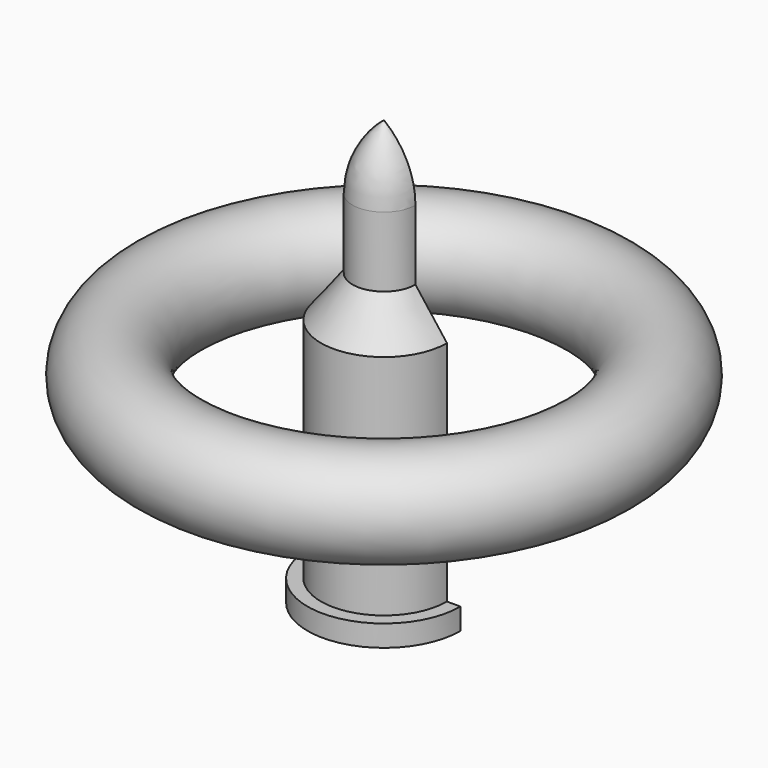
from build123d import *

# Parameters (mm, degrees)
F1_ANGLE = 200
F2_R     = 8.71686


with BuildPart() as f1:
    # F0 (on Front) → F1 (revolve)
    with BuildSketch(Plane.XZ):
        with BuildLine():
            Line((0, 75.112745), (0, 0))
            Line((0, 0), (13.527463, 0))
            Line((13.527463, 0), (13.527463, 3.794289))
            Line((13.527463, 3.794289), (11.133604, 3.794289))
            Line((11.133604, 3.794289), (11.133604, 44.017516))
            Line((11.133604, 44.017516), (5.560741, 51.315997))
            Line((5.560741, 51.315997), (5.560741, 63.680977))
            ThreePointArc((5.560741, 63.680977), (4.096815, 70.037217), (0, 75.112745))
        make_face()
    revolve(axis=Axis((0, 0, 37.556373), (0, 0, -1)), revolution_arc=F1_ANGLE)


with BuildPart() as f3:
    # F2 (on Front) → F3 (revolve)
    with BuildSketch(Plane.XZ):
        with Locations((37.94289, 35.468351)):
            Circle(F2_R)
    revolve(axis=Axis((0, 0, 37.556373), (0, 0, -1)))


solid = Compound([f1.part, f3.part])
